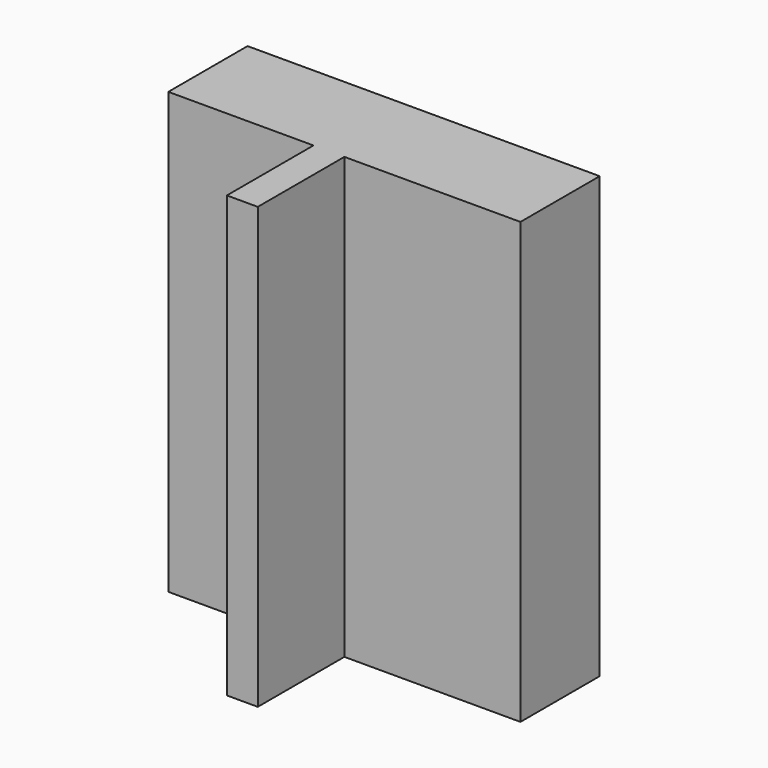
from build123d import *

# Parameters (mm, degrees)
F0_W     = 1.755959
F0_H     = 6.14772
F1_DEPTH = 25


with BuildPart() as f1:
    # F0 (on Top) → F1 (new body)
    with BuildSketch(Plane.XY):
        Polygon((-10.429473, 0), (-2.185431, 0), (-2.185431, 5.626764), (-22.185431, 5.626764), (-22.185431, 0), (-13.94139, 0), (-12.185431, 0), align=None)
        with Locations((-13.06341, -3.07386)):
            Rectangle(F0_W, F0_H)
    extrude(amount=F1_DEPTH)


solid = f1.part
